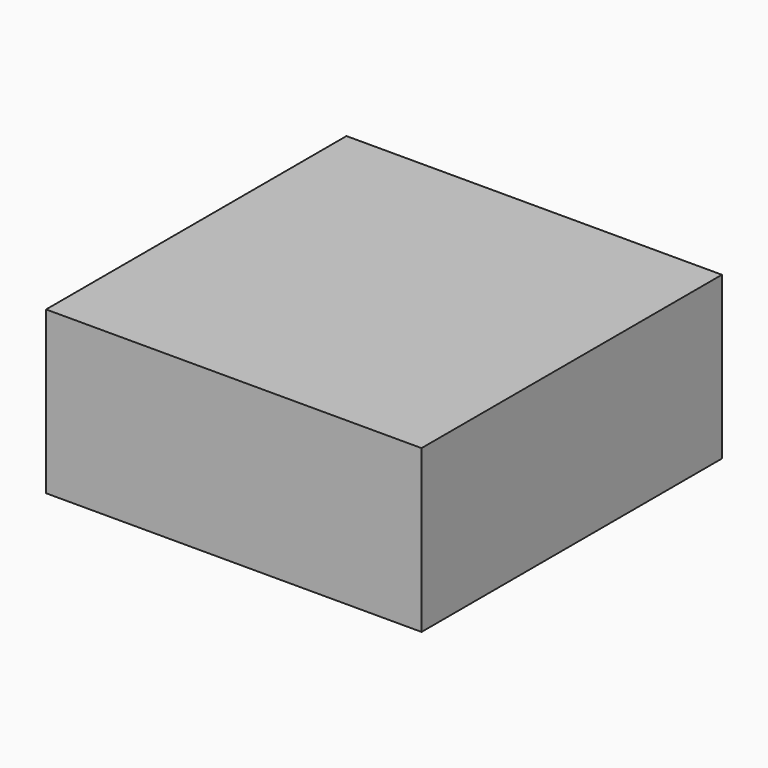
from build123d import *

# Parameters (mm, degrees)
F0_W     = 116
F0_H     = 116
F1_DEPTH = 50
F2_W     = 110
F2_H     = 110
F3_DEPTH = 45
F4_R     = 5


with BuildPart() as f1:
    # F0 (on Top) → F1 (new body)
    with BuildSketch(Plane.XY):
        Rectangle(F0_W, F0_H)
    extrude(amount=F1_DEPTH)

    # F2 (on Top) → F3 (cut)
    with BuildSketch(Plane.XY):
        Rectangle(F2_W, F2_H)
    extrude(amount=F3_DEPTH, mode=Mode.SUBTRACT)

    # F4
    f4_edges = [f1.edges().sort_by_distance(p)[0] for p in [
        (55, 55, 22.5),
        (-55, -55, 22.5),
        (55, -55, 22.5),
        (-55, 55, 22.5),
    ]]
    fillet(f4_edges, radius=F4_R)


solid = f1.part
